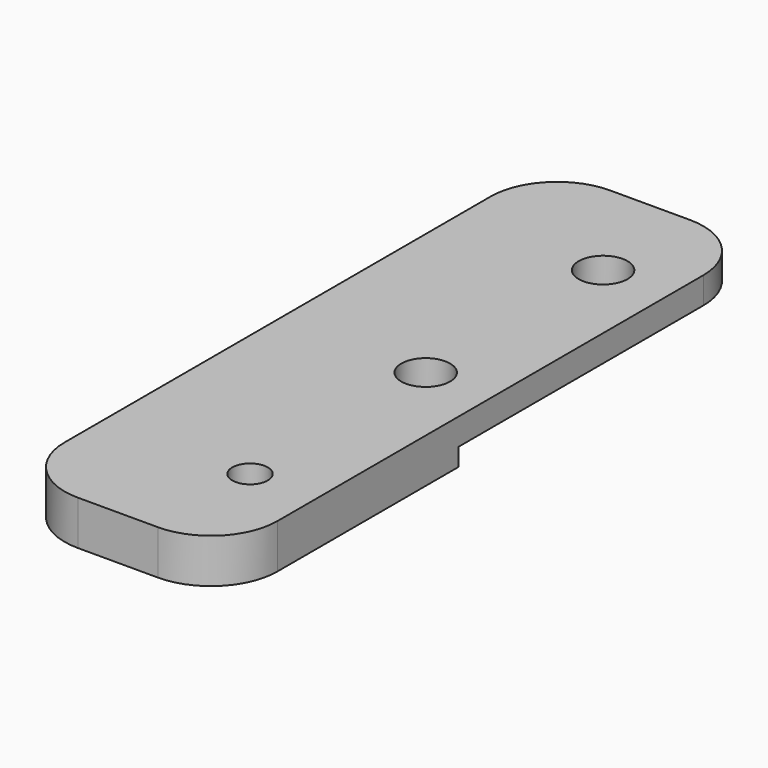
from build123d import *

# Parameters (mm, degrees)
F0_W     = 24
F0_H     = 75
F1_DEPTH = 5
F2_R     = 2.75
F2_R_2   = 2
F3_DEPTH = 5
F4_R     = 7.5
F5_R     = 2.75
F6_DEPTH = 2


with BuildPart() as f1:
    # F0 (on Top) → F1 (new body)
    with BuildSketch(Plane.XY):
        Rectangle(F0_W, F0_H)
    extrude(amount=F1_DEPTH)

    # F2 (on face) → F3 (cut)
    with BuildSketch(Plane.XY.offset(5)):
        with Locations((4.5, 25.25)):
            Circle(F2_R)
        with Locations((4.5, 0.25)):
            Circle(F2_R)
        with Locations((4.5, -24.5)):
            Circle(F2_R_2)
    extrude(amount=-F3_DEPTH, mode=Mode.SUBTRACT)

    # F4
    f4_edges = [f1.edges().sort_by_distance(p)[0] for p in [
        (12, 37.5, 2.5),
        (-12, 37.5, 2.5),
        (12, -37.5, 2.5),
        (-12, -37.5, 2.5),
    ]]
    fillet(f4_edges, radius=F4_R)

    # F5 (on face) → F6 (cut)
    with BuildSketch(Plane(origin=(0, 0, 0), x_dir=(1, 0, 0), z_dir=(0, 0, -1))):
        with BuildLine():
            Line((4.5, 12), (-12, 12))
            Line((-12, 12), (-12, -30))
            ThreePointArc((-12, -30), (-9.803301, -35.303301), (-4.5, -37.5))
            Line((-4.5, -37.5), (4.5, -37.5))
            ThreePointArc((4.5, -37.5), (9.803301, -35.303301), (12, -30))
            Line((12, -30), (12, 4.5))
            ThreePointArc((12, 4.5), (9.803301, 9.803301), (4.5, 12))
        make_face()
        with Locations((4.5, -25.25)):
            Circle(F5_R, mode=Mode.SUBTRACT)
        with Locations((4.5, -0.25)):
            Circle(F5_R, mode=Mode.SUBTRACT)
    extrude(amount=-F6_DEPTH, mode=Mode.SUBTRACT)


solid = f1.part
